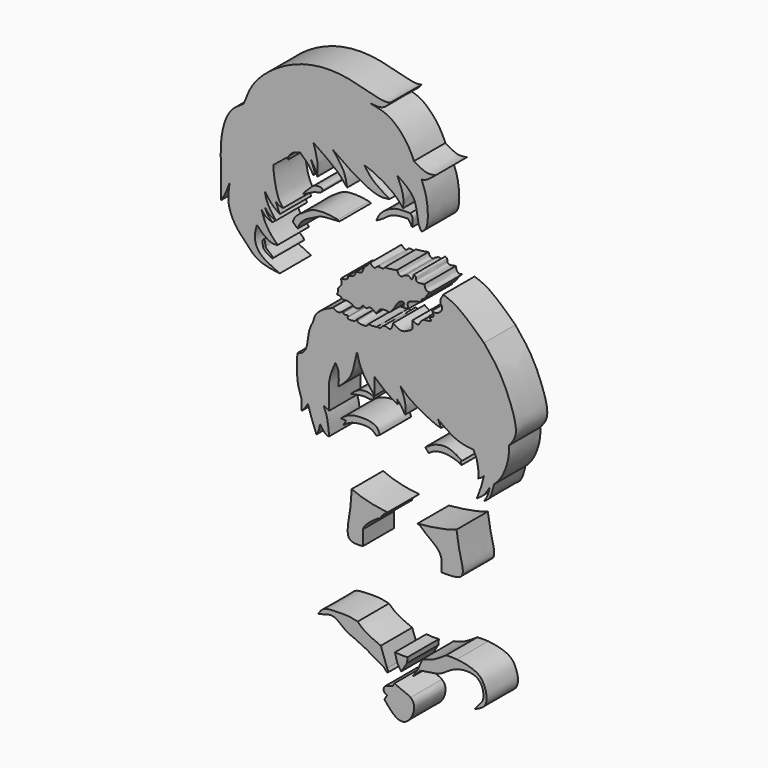
from build123d import *

# Parameters (mm, degrees)
F1_DEPTH = 9.144


with BuildPart() as f1:
    # F0 (on Front) → F1 (new body)
    with BuildSketch(Plane.XZ):
        with BuildLine():
            add(Edge.make_bspline(
                [(-23.2834928953, 7.3838214183), (-22.7370457146, 7.4878234549), (-20.8259872618, 8.3608240397), (-20.8955535587, 12.6126467214), (-19.9950304038, 14.2654869951), (-19.6032002568, 14.9846607819)],
                knots=[0.6667127263, 0.6667127263, 0.6667127263, 0.6667127263, 0.7248206748, 0.8802656491, 1, 1, 1, 1], degree=3))
            add(Edge.make_bspline(
                [(-23.2834928953, 7.3838214183), (-23.3467457651, 5.9570789342), (-23.4617251802, 3.2701303497), (-23.0085938514, -0.0398202583), (-22.0072298496, -1.9416483631), (-22.5352746964, -4.6428617238), (-21.5418332357, -3.3454172993), (-21.0707026007, -2.6549217527), (-20.8033584058, -2.2631050088)],
                knots=[0, 0, 0, 0, 0.2313073822, 0.4337531024, 0.6064591299, 0.7584828148, 0.8628605483, 1, 1, 1, 1], degree=3))
            add(Edge.make_bspline(
                [(-20.8033584058, -2.2631050088), (-20.5304210229, -3.1431055271), (-19.9679386076, -4.9566526919), (-19.2095162396, -6.8876436832), (-18.8191086054, -7.8816460446)],
                knots=[0, 0, 0, 0, 0.4852371835, 1, 1, 1, 1], degree=3))
            add(Edge.make_bspline(
                [(-18.8191086054, -7.8816460446), (-18.6842120522, -7.6407949919), (-18.549315499, -7.3999439393), (-18.4330398864, -7.1589284934)],
                knots=[0, 0, 0, 0, 0.2964626581, 0.2964626581, 0.2964626581, 0.2964626581], degree=3))
            add(Edge.make_bspline(
                [(-18.4330398864, -7.1589284934), (-18.3447757655, -6.9759751124), (-18.1023853604, -6.4037237485), (-18.0444646272, -5.8298438117), (-18.0050712079, -5.4395329207)],
                knots=[0.2964626581, 0.2964626581, 0.2964626581, 0.2964626581, 0.5215056858, 1, 1, 1, 1], degree=3))
            add(Edge.make_bspline(
                [(-18.0050712079, -5.4395329207), (-17.5358533235, -6.1386457618), (-16.7835088517, -7.2596040599), (-16.1184871301, -7.3049357396), (-15.8682223409, -7.3219952174)],
                knots=[0, 0, 0, 0, 0.6236742635, 1, 1, 1, 1], degree=3))
            add(Edge.make_bspline(
                [(-17.1401575208, -1.4202223392), (-16.8586679279, -2.0570863275), (-16.2066038698, -3.5323668604), (-15.9908419678, -5.9487440933), (-15.8682223409, -7.3219952174)],
                knots=[0, 0, 0, 0, 0.4316900915, 1, 1, 1, 1], degree=3))
            add(Edge.make_bspline(
                [(-17.1401575208, -1.4202223392), (-16.7161791275, -1.6325103353), (-16.2922007342, -1.8447983314), (-15.8682223409, -2.0570863275)],
                knots=[0, 0, 0, 0, 1.42246787, 1.42246787, 1.42246787, 1.42246787], degree=3))
            add(Edge.make_bspline(
                [(-14.39278014, 8.2973521203), (-14.6711141427, 7.6682392119), (-15.2639142795, 6.3283446443), (-16.074859645, 3.80515167), (-15.8293485486, 0.0230459236), (-15.8566308085, -1.4368247328), (-15.8682223409, -2.0570863275)],
                knots=[0, 0, 0, 0, 0.2241880166, 0.4774791641, 0.7779943001, 1, 1, 1, 1], degree=3))
            add(Edge.make_bspline(
                [(-14.39278014, 8.2973521203), (-14.1295459057, 7.8796531901), (-13.487271247, 6.8604945747), (-13.6087852881, 4.8205282663), (-13.6804971844, 3.6166356876)],
                knots=[0, 0, 0, 0, 0.4098468324, 1, 1, 1, 1], degree=3))
            add(Edge.make_bspline(
                [(-9.3559222296, 12.1640302241), (-9.545618552, 11.2439649612), (-9.9359418079, 9.3508187766), (-10.8175540538, 6.1497408327), (-12.7002842733, 4.4839188488), (-13.6804971844, 3.6166356876)],
                knots=[0, 0, 0, 0, 0.3118868084, 0.6417450425, 1, 1, 1, 1], degree=3))
            add(Edge.make_bspline(
                [(-9.3559222296, 12.1640302241), (-9.1415522268, 11.183021882), (-8.6885213887, 9.1098445463), (-6.4131342354, 5.8472901656), (-5.5715020805, 4.8617495549), (-5.232878495, 4.4652256183)],
                knots=[0, 0, 0, 0, 0.3493094953, 0.7382001739, 1, 1, 1, 1], degree=3))
            add(Edge.make_bspline(
                [(-5.232878495, 8.2973521203), (-5.232878495, 7.0199766196), (-5.232878495, 5.742601119), (-5.232878495, 4.4652256183)],
                knots=[0, 0, 0, 0, 3.8321265019, 3.8321265019, 3.8321265019, 3.8321265019], degree=3))
            add(Edge.make_bspline(
                [(-5.232878495, 8.2973521203), (-4.3802456485, 7.5448368917), (-2.7065009352, 6.0676261666), (-0.8907686531, 4.9926106857), (0, 4.4652256183)],
                knots=[0, 0, 0, 0, 0.5094163045, 1, 1, 1, 1], degree=3))
            add(Edge.make_bspline(
                [(0, 5.4318951443), (0.1058486689, 5.145685687), (0.0529243345, 4.8054556527), (0, 4.4652256183)],
                knots=[0.5048603434, 0.5048603434, 0.5048603434, 0.5048603434, 1, 1, 1, 1], degree=3))
            add(Edge.make_bspline(
                [(0, 5.4318951443), (0.2954681031, 5.1367856095), (0.9431074393, 4.4899322225), (1.5234797864, 3.4522790482), (1.8390727928, 2.8880273458)],
                knots=[0, 0, 0, 0, 0.4562232196, 1, 1, 1, 1], degree=3))
            add(Edge.make_bspline(
                [(0.7706487086, 8.3827814087), (1.046336286, 7.8160728257), (1.6141491875, 6.6488659174), (2.0410112224, 4.4780649121), (1.9027120641, 3.3891148912), (1.8390727928, 2.8880273458)],
                knots=[0, 0, 0, 0, 0.3375143575, 0.6951528554, 1, 1, 1, 1], degree=3))
            add(Edge.make_bspline(
                [(0.7706487086, 8.3827814087), (1.4259010838, 7.7394897403), (2.9808799505, 6.2128948168), (8.2537663963, 3.3848211667), (9.7029290704, 3.0212304271), (10.2338362485, 2.8880273458)],
                knots=[0, 0, 0, 0, 0.3157579297, 0.7493248804, 1, 1, 1, 1], degree=3))
            add(Edge.make_bspline(
                [(9.4706760719, 4.4652256183), (9.7976174178, 4.0288565413), (10.0157268332, 3.4584419435), (10.2338362485, 2.8880273458)],
                knots=[0.4755673873, 0.4755673873, 0.4755673873, 0.4755673873, 1, 1, 1, 1], degree=3))
            add(Edge.make_bspline(
                [(9.4706760719, 4.4652256183), (10.0343443338, 4.051640707), (11.305647942, 3.1188367413), (14.3873166326, 1.2226289698), (16.6467019141, 1.0061221732), (17.764126882, 0.8990443312)],
                knots=[0, 0, 0, 0, 0.2870388331, 0.6473905466, 1, 1, 1, 1], degree=3))
            add(Edge.make_bspline(
                [(17.764126882, 0.8990443312), (18.0813559885, 0.3023998655), (18.7704372558, -0.9936240998), (19.0452295332, -3.9517865462), (18.9189965282, -4.5276502492), (18.8843956508, -4.6411745258)],
                knots=[0, 0, 0, 0, 0.3707934573, 0.8054331089, 0.9380549572, 0.9380549572, 0.9380549572, 0.9380549572], degree=3))
            Line((18.8843956508, -4.6411745258), (18.8879403592, -4.6389544397))
            add(Edge.make_bspline(
                [(20.2455148101, -3.5931265447), (20.0121775324, -4.05283358), (19.4500589458, -4.3458940099), (18.8879403592, -4.6389544397)],
                knots=[0.4998641853, 0.4998641853, 0.4998641853, 0.4998641853, 1, 1, 1, 1], degree=3))
            add(Edge.make_bspline(
                [(20.2455148101, -3.5931265447), (20.0773123663, -4.3287265851), (19.712977018, -5.9220749981), (18.9532659882, -7.8335174867), (18.5442902148, -8.8625056669)],
                knots=[0, 0, 0, 0, 0.4616692962, 1, 1, 1, 1], degree=3))
            add(Edge.make_bspline(
                [(18.5442902148, -8.8625056669), (19.1478463262, -8.4617461117), (20.3724621261, -7.6486046753), (21.1465151236, -6.3250488608), (21.5390734375, -5.6538120843)],
                knots=[0, 0, 0, 0, 0.4928534414, 1, 1, 1, 1], degree=3))
            add(Edge.make_bspline(
                [(20.2455148101, -8.8625056669), (20.5707524824, -8.3797265979), (21.224439266, -7.409401437), (21.4338524446, -6.2409220409), (21.5390734375, -5.6538120843)],
                knots=[0, 0, 0, 0, 0.4975435951, 1, 1, 1, 1], degree=3))
            add(Edge.make_bspline(
                [(20.2455148101, -8.8625056669), (20.7148711561, -8.5543373227), (21.8253312757, -7.8252353104), (22.2948098647, -5.8051903378), (22.5658547133, -4.6389544397)],
                knots=[0, 0, 0, 0, 0.4226683495, 1, 1, 1, 1], degree=3))
            add(Edge.make_bspline(
                [(26.0366909206, 4.4652256183), (26.0643783429, 3.6051707896), (26.1273070443, 1.6504155581), (24.5377784991, -2.7239840742), (23.1644112145, -4.0576855437), (22.5658547133, -4.6389544397)],
                knots=[0, 0, 0, 0, 0.3071149756, 0.6980189927, 1, 1, 1, 1], degree=3))
            add(Edge.make_bspline(
                [(20.2455148101, 23.6175674945), (21.5002678948, 22.0694541327), (24.0620308419, 18.9087530382), (26.5946186612, 13.1492701279), (28.3467761271, 7.2400857711), (26.730517044, 5.2986452936), (26.0366909206, 4.4652256183)],
                knots=[0, 0, 0, 0, 0.2664763432, 0.5440506428, 0.8042705045, 1, 1, 1, 1], degree=3))
            add(Edge.make_bspline(
                [(10.7207633555, 30.4354578257), (11.7681867617, 30.0671966426), (14.3854184519, 29.1470101804), (18.0484429252, 25.6906704474), (20.2455148101, 23.6175674945)],
                knots=[0, 0, 0, 0, 0.400202783, 1, 1, 1, 1], degree=3))
            add(Edge.make_bspline(
                [(10.7207633555, 30.4354578257), (10.4758139401, 29.9304995969), (10.2923961274, 29.5940505696), (10.108971037, 29.2575880885)],
                knots=[0.8865263104, 0.8865263104, 0.8865263104, 0.8865263104, 1, 1, 1, 1], degree=3))
            add(Edge.make_bspline(
                [(8.1545943133, 26.3093189762), (8.4949935687, 26.1617466135), (9.2772580844, 25.8234431759), (11.0310106132, 27.5712354203), (9.7998001127, 28.4828242172), (10.1834723044, 29.0667388948), (10.108971037, 29.2575880885)],
                knots=[0, 0, 0, 0, 0.1144751405, 0.2628381702, 0.3762437058, 0.4669661306, 0.4669661306, 0.4669661306, 0.4669661306], degree=3))
            add(Edge.make_bspline(
                [(7.3290632646, 24.8650461435), (7.851522289, 24.9129696762), (8.7814318109, 24.9982673132), (8.3343218857, 25.8931341273), (8.1545943133, 26.3093189762)],
                knots=[0, 0, 0, 0, 0.1694828298, 0.3016574774, 0.3016574774, 0.3016574774, 0.3016574774], degree=3))
            add(Edge.make_bspline(
                [(3.601440927, 22.8684358299), (4.0993347589, 22.5384649139), (5.1332301838, 21.8532677938), (5.4996820436, 24.113130623), (8.517725504, 23.7713194036), (7.6417418318, 24.5536893029), (7.3290632646, 24.8650461435)],
                knots=[0, 0, 0, 0, 0.1079767012, 0.2242143558, 0.3540963209, 0.4285603531, 0.4285603531, 0.4285603531, 0.4285603531], degree=3))
            add(Edge.make_bspline(
                [(-0.9413046931, 20.7998961709), (-0.30413657, 20.3606664774), (0.9070827347, 19.5257923175), (2.5713426093, 20.3508270142), (3.9877840083, 21.0974691683), (3.3804068631, 22.588365083), (3.601440927, 22.8684358299)],
                knots=[0, 0, 0, 0, 0.1037723554, 0.1972455751, 0.2811032793, 0.3698970932, 0.3698970932, 0.3698970932, 0.3698970932], degree=3))
            add(Edge.make_bspline(
                [(-0.9413046931, 20.7998961709), (-0.969808945, 20.6540773126), (-1.1422470058, 19.927070055), (-1.6002731465, 18.9151561348), (-3.077156531, 20.0164781135), (-3.8830179857, 18.5953002161), (-4.4307690575, 18.7911349854), (-4.6659419313, 18.8752152026)],
                knots=[0.5181964914, 0.5181964914, 0.5181964914, 0.5181964914, 0.5480741139, 0.6690997634, 0.790044987, 0.9098553203, 1, 1, 1, 1], degree=3))
            add(Edge.make_bspline(
                [(-4.6659419313, 18.8752152026), (-4.6143586926, 18.6518044136), (-5.7102445653, 18.6546330711), (-6.7968204902, 18.6522367499)],
                knots=[0.7854608979, 0.7854608979, 0.7854608979, 0.7854608979, 1, 1, 1, 1], degree=3))
            add(Edge.make_bspline(
                [(-6.7968204902, 18.6522367499), (-6.8684314217, 18.4386236562), (-7.379689536, 17.8996071688), (-9.4692626942, 18.2367026987), (-9.2608198746, 18.6284649762), (-9.3200067243, 18.8752152026)],
                knots=[0.0388377977, 0.0388377977, 0.0388377977, 0.0388377977, 0.1036617107, 0.2437293631, 0.3165461539, 0.3165461539, 0.3165461539, 0.3165461539], degree=3))
            add(Edge.make_bspline(
                [(-9.3200067243, 18.8752152026), (-9.4543560362, 18.6677579741), (-9.772658848, 18.1762465683), (-11.904019028, 18.0701335076), (-11.2010559572, 19.1520906538), (-12.6812429457, 18.5928200618), (-12.535756528, 19.2213664521), (-12.4527206644, 19.544840801)],
                knots=[0, 0, 0, 0, 0.0980960614, 0.2324109574, 0.3081307546, 0.4114966056, 0.4849332227, 0.4849332227, 0.4849332227, 0.4849332227], degree=3))
            add(Edge.make_bspline(
                [(-12.4527206644, 19.544840801), (-12.8848613293, 19.2195165576), (-13.7336901453, 18.5808958089), (-14.5882032991, 19.1226699762), (-15.0079392633, 19.3892328639)],
                knots=[0, 0, 0, 0, 0.5090440529, 1, 1, 1, 1], degree=3))
            add(Edge.make_bspline(
                [(-19.6032002568, 14.9846607819), (-19.4514744108, 15.5934589779), (-19.1102940224, 16.9624413255), (-16.8990295674, 18.5982135071), (-15.4063722859, 19.1265880384), (-15.0079392633, 19.3892328639)],
                knots=[0, 0, 0, 0, 0.2020876828, 0.4544272177, 0.6046429592, 0.6046429592, 0.6046429592, 0.6046429592], degree=3))
        make_face()
    extrude(amount=F1_DEPTH)


with BuildPart() as f1b:
    # F0 (on Front) → F1, piece 2 (new body)
    with BuildSketch(Plane.XZ):
        with BuildLine():
            add(Edge.make_bspline(
                [(7.8839112623, 29.9550307841), (7.4330699671, 29.8591992719), (6.732179082, 29.7092988347), (6.4015948009, 30.7824765781), (6.3457405778, 31.1630724069)],
                knots=[0, 0, 0, 0, 0.1087324898, 0.1690772342, 0.1690772342, 0.1690772342, 0.1690772342], degree=3))
            add(Edge.make_bspline(
                [(6.3457405778, 31.1630724069), (5.5386224242, 31.0064856216), (4.1458545144, 30.7364754393), (4.5272829372, 32.0266575321), (4.0158145754, 32.2590573152), (3.8610626274, 32.3113169979)],
                knots=[0, 0, 0, 0, 0.1395616954, 0.2411039573, 0.280285402, 0.280285402, 0.280285402, 0.280285402], degree=3))
            add(Edge.make_bspline(
                [(3.8610626274, 32.3113169979), (3.7280034683, 31.7626494032), (3.4885190441, 30.7751055941), (2.7495475723, 31.9402309805), (1.9550213112, 31.548002301), (1.5080485027, 31.327355653)],
                knots=[0, 0, 0, 0, 0.3537167905, 0.6363807163, 1, 1, 1, 1], degree=3))
            add(Edge.make_bspline(
                [(0, 31.9966028064), (0.138717784, 31.570374643), (0.4036160619, 30.7564407461), (1.3739962293, 31.0728199955), (1.5080485027, 31.327355653)],
                knots=[0, 0, 0, 0, 0.142556645, 0.2722290444, 0.2722290444, 0.2722290444, 0.2722290444], degree=3))
            add(Edge.make_bspline(
                [(0, 31.9966028064), (-0.3448338661, 31.8911298534), (-1.6304980855, 31.6559905885), (-2.4118724119, 31.6061542815), (-2.9313690347, 31.5716880665)],
                knots=[0.7602819771, 0.7602819771, 0.7602819771, 0.7602819771, 0.8400336398, 1, 1, 1, 1], degree=3))
            add(Edge.make_bspline(
                [(-6.3149542052, 31.4247538611), (-5.9299594666, 31.046662111), (-5.2172115016, 30.3465665602), (-4.5953991435, 31.5901947835), (-3.2483999389, 30.9712736453), (-2.9759778503, 31.4178358209), (-2.9313690347, 31.5716880665)],
                knots=[0, 0, 0, 0, 0.1214257355, 0.2250401772, 0.3490738201, 0.392590396, 0.392590396, 0.392590396, 0.392590396], degree=3))
            add(Edge.make_bspline(
                [(-6.3149542052, 31.4247538611), (-6.4831560258, 31.1724553664), (-6.9450968102, 30.671667244), (-7.3665193936, 30.3525451079), (-7.6046418399, 30.1722269505)],
                knots=[0.7824320274, 0.7824320274, 0.7824320274, 0.7824320274, 0.8770644481, 1, 1, 1, 1], degree=3))
            Line((-7.6046418399, 30.1722269505), (-8.2027550719, 28.845915923))
            Line((-8.2027550719, 28.845915923), (-9.6632829871, 28.4139886065))
            add(Edge.make_bspline(
                [(-11.4182481745, 27.1112304181), (-10.7962385439, 27.245318041), (-9.9197250437, 27.4342694751), (-9.6765987799, 28.1893002247), (-9.6632829871, 28.4139886065)],
                knots=[0, 0, 0, 0, 0.1715092195, 0.241684596, 0.241684596, 0.241684596, 0.241684596], degree=3))
            add(Edge.make_bspline(
                [(-13.1361398632, 25.9786825627), (-12.4455884358, 26.0576453064), (-11.5015505986, 26.1655935558), (-11.4135700693, 26.8922264037), (-11.4182481745, 27.1112304181)],
                knots=[0, 0, 0, 0, 0.1797687074, 0.24575789, 0.24575789, 0.24575789, 0.24575789], degree=3))
            add(Edge.make_bspline(
                [(-13.7934880331, 23.800548166), (-13.3464910301, 24.2256541761), (-12.7350249926, 24.8071746018), (-13.0212995331, 25.7414309798), (-13.1361398632, 25.9786825627)],
                knots=[0, 0, 0, 0, 0.1926713389, 0.263563244, 0.263563244, 0.263563244, 0.263563244], degree=3))
            add(Edge.make_bspline(
                [(-14.1093051353, 22.3692841823), (-14.0083345722, 22.5164989258), (-13.7169390796, 23.032336388), (-13.7615559241, 23.4800915025), (-13.7934880331, 23.800548166)],
                knots=[0.6095674538, 0.6095674538, 0.6095674538, 0.6095674538, 0.7205688846, 1, 1, 1, 1], degree=3))
            add(Edge.make_bspline(
                [(-12.4527206644, 21.7203851789), (-12.7962894206, 21.9987133631), (-13.3953188046, 22.4839925328), (-13.895849865, 22.4035776988), (-14.1093051353, 22.3692841823)],
                knots=[0, 0, 0, 0, 0.5735424088, 1, 1, 1, 1], degree=3))
            add(Edge.make_bspline(
                [(-12.4527206644, 21.7203851789), (-12.2667521605, 21.9613562883), (-10.8563731327, 21.8418532385), (-10.0231775629, 21.1129956532), (-9.5299205505, 21.0449701291), (-9.3200067243, 21.016020722)],
                knots=[0.6677766138, 0.6677766138, 0.6677766138, 0.6677766138, 0.7967229065, 0.9134920105, 1, 1, 1, 1], degree=3))
            add(Edge.make_bspline(
                [(-9.3200067243, 21.016020722), (-9.1348419057, 21.0867377377), (-8.4954471011, 21.3177182161), (-8.1678520809, 22.3649389073), (-7.4084929957, 21.9589661334), (-7.295078598, 21.7203851789)],
                knots=[0.5200184405, 0.5200184405, 0.5200184405, 0.5200184405, 0.5680958913, 0.6753526598, 0.7652030183, 0.7652030183, 0.7652030183, 0.7652030183], degree=3))
            add(Edge.make_bspline(
                [(-7.295078598, 21.7203851789), (-6.9665676676, 21.9621782182), (-6.2980487688, 22.454211566), (-5.5062272137, 21.9410437861), (-5.0014957635, 21.5401907884), (-4.8954844488, 21.442797004)],
                knots=[0, 0, 0, 0, 0.1543820822, 0.3137298854, 0.3618438877, 0.3618438877, 0.3618438877, 0.3618438877], degree=3))
            add(Edge.make_bspline(
                [(-4.8954844488, 21.442797004), (-4.5977796871, 21.9406030924), (-4.0076809845, 22.9272500112), (-2.6869521104, 22.8514155823), (-1.9308443956, 22.7846848037), (-1.7455301713, 22.7487841641)],
                knots=[0, 0, 0, 0, 0.1362307653, 0.269953759, 0.3183876717, 0.3183876717, 0.3183876717, 0.3183876717], degree=3))
            add(Edge.make_bspline(
                [(2.6063384858, 24.8650461435), (2.1942335066, 24.8145199149), (1.1658738782, 24.5950400189), (1.8693063082, 26.0532878528), (0.1927644211, 25.8086647115), (-0.5734724504, 23.9808846719), (-1.3646671233, 23.1491577188), (-1.7455301713, 22.7487841641)],
                knots=[0.5943830337, 0.5943830337, 0.5943830337, 0.5943830337, 0.6687023485, 0.7344570088, 0.8061302556, 0.9066751273, 1, 1, 1, 1], degree=3))
            add(Edge.make_bspline(
                [(5.4186019115, 27.1112304181), (5.0234748447, 27.1673342405), (4.3892847604, 26.8573306932), (2.1865500338, 26.5359007239), (2.4725942371, 25.3974269289), (2.6063384858, 24.8650461435)],
                knots=[0.6718827421, 0.6718827421, 0.6718827421, 0.6718827421, 0.7692770988, 0.8921054349, 1, 1, 1, 1], degree=3))
            add(Edge.make_bspline(
                [(6.3158340651, 28.1095355749), (6.176623522, 28.0984645429), (5.7319857186, 28.0017814598), (5.5494119254, 27.4829567486), (5.4186019115, 27.1112304181)],
                knots=[0.779708411, 0.779708411, 0.779708411, 0.779708411, 0.8421659911, 1, 1, 1, 1], degree=3))
            add(Edge.make_bspline(
                [(7.8839112623, 29.9550307841), (7.735002289, 29.8955665174), (7.2348545952, 29.6065257298), (6.7899295107, 28.7505189498), (6.4629743272, 28.3084711212), (6.3158340651, 28.1095355749)],
                knots=[0.7380710375, 0.7380710375, 0.7380710375, 0.7380710375, 0.7860824457, 0.9037242354, 1, 1, 1, 1], degree=3))
        make_face()
    extrude(amount=F1_DEPTH)


with BuildPart() as f1c:
    # F0 (on Front) → F1, piece 3 (new body)
    with BuildSketch(Plane.XZ):
        with BuildLine():
            add(Edge.make_bspline(
                [(-35.7814617455, 54.4607974589), (-35.1294902931, 56.2580385342), (-33.6217832132, 60.4142221881), (-24.8587240547, 67.0598147468), (-13.5574055336, 68.9025618329), (-3.7408851946, 65.3392585884), (-2.0826629799, 65.7100235675), (-1.5783999115, 65.8227726817)],
                knots=[0, 0, 0, 0, 0.1801577688, 0.4166212225, 0.6692381623, 0.8994157854, 1, 1, 1, 1], degree=3))
            add(Edge.make_bspline(
                [(-35.7814617455, 54.4607974589), (-36.9660435508, 53.7192314586), (-39.6371439458, 52.0470824964), (-41.4435000187, 45.2091002113), (-40.90865743, 38.276174862), (-41.0321955069, 34.6230988819), (-41.0893410444, 32.9332798719)],
                knots=[0, 0, 0, 0, 0.2147152851, 0.4841591187, 0.7613852731, 1, 1, 1, 1], degree=3))
            add(Edge.make_bspline(
                [(-39.0357784927, 37.3223088682), (-39.3068751954, 36.4871641653), (-39.8328133827, 34.8669508361), (-40.6792184627, 33.564417691), (-41.0893410444, 32.9332798719)],
                knots=[0, 0, 0, 0, 0.5154535442, 1, 1, 1, 1], degree=3))
            add(Edge.make_bspline(
                [(-39.0357784927, 37.3223088682), (-39.2663167276, 35.8503562843), (-39.7237506432, 32.9297082879), (-37.8932117017, 28.8232904918), (-35.3355419375, 26.2445931328), (-32.6090873171, 23.054912113), (-29.1942267979, 22.6222398747), (-27.3706596345, 22.3911888897)],
                knots=[0, 0, 0, 0, 0.2030045896, 0.4028016624, 0.587587588, 0.7797679501, 1, 1, 1, 1], degree=3))
            add(Edge.make_bspline(
                [(-32.7052474022, 30.6194592267), (-32.9437435672, 29.796959276), (-33.4410033525, 28.0820631527), (-32.5416588893, 24.8873001119), (-29.1255932511, 23.2013356898), (-27.8898295194, 22.6308582522), (-27.3706596345, 22.3911888897)],
                knots=[0, 0, 0, 0, 0.2419037348, 0.5043645008, 0.7917732828, 1, 1, 1, 1], degree=3))
            add(Edge.make_bspline(
                [(-32.7052474022, 30.6194592267), (-32.2776458268, 30.1586591256), (-31.3743159383, 29.1851956776), (-29.1736478235, 27.7898662152), (-28.2364976951, 27.9935373316), (-27.8464587868, 28.0783046037)],
                knots=[0, 0, 0, 0, 0.3441518182, 0.7270380688, 1, 1, 1, 1], degree=3))
            add(Edge.make_bspline(
                [(-31.5865762532, 34.014493227), (-31.3900278981, 33.3686911533), (-30.9715934647, 31.9938344432), (-29.5440623109, 29.6930906124), (-28.3999101563, 28.6047558718), (-27.8464587868, 28.0783046037)],
                knots=[0, 0, 0, 0, 0.313810362, 0.6680750953, 1, 1, 1, 1], degree=3))
            add(Edge.make_bspline(
                [(-31.5865762532, 34.014493227), (-31.2663458774, 33.6142988988), (-30.6206414801, 32.8073572185), (-29.6124438983, 32.4857445846), (-29.1042514145, 32.3236323893)],
                knots=[0, 0, 0, 0, 0.4959395926, 1, 1, 1, 1], degree=3))
            add(Edge.make_bspline(
                [(-30.8788307011, 34.9012799561), (-30.7000381504, 34.5018341672), (-30.3149995983, 33.6416080136), (-29.5265725628, 32.7833555476), (-29.1042514145, 32.3236323893)],
                knots=[0, 0, 0, 0, 0.4643497379, 1, 1, 1, 1], degree=3))
            add(Edge.make_bspline(
                [(-30.8788307011, 34.9012799561), (-30.5367277234, 34.4660048105), (-29.8501341697, 33.5924166559), (-28.8169803693, 33.1535009032), (-28.2986070961, 32.9332798719)],
                knots=[0, 0, 0, 0, 0.4982612725, 1, 1, 1, 1], degree=3))
            add(Edge.make_bspline(
                [(-30.8788307011, 38.1955392659), (-30.7473282643, 37.5029628033), (-30.446143608, 35.9167305715), (-29.0724962365, 34.0084001712), (-28.2986070961, 32.9332798719)],
                knots=[0, 0, 0, 0, 0.4366173179, 1, 1, 1, 1], degree=3))
            add(Edge.make_bspline(
                [(-30.8788307011, 38.1955392659), (-30.3680718909, 37.4348321133), (-29.3740457098, 35.9543626417), (-28.0260277705, 35.0154780178), (-27.3706596345, 34.5590189099)],
                knots=[0, 0, 0, 0, 0.5138283276, 1, 1, 1, 1], degree=3))
            add(Edge.make_bspline(
                [(-28.2986070961, 36.869276315), (-28.1510459743, 36.4654437054), (-27.8600477459, 35.6690647367), (-27.5322404477, 34.9255216982), (-27.3706596345, 34.5590189099)],
                knots=[0, 0, 0, 0, 0.5070859798, 1, 1, 1, 1], degree=3))
            add(Edge.make_bspline(
                [(-28.2986070961, 36.869276315), (-28.0250817867, 36.6377954889), (-27.498889244, 36.1924857486), (-26.8919928403, 36.1005517031), (-26.6005732119, 36.056406796)],
                knots=[0, 0, 0, 0, 0.5198198135, 1, 1, 1, 1], degree=3))
            add(Edge.make_bspline(
                [(-28.785231577, 44.2480828226), (-28.8010731442, 44.1099001136), (-28.8583147087, 43.5927752627), (-28.8799281438, 43.1048464989), (-28.1028707183, 37.9362905737), (-27.0409268142, 36.6074385256), (-26.6005732119, 36.056406796)],
                knots=[0.2635556696, 0.2635556696, 0.2635556696, 0.2635556696, 0.3054515071, 0.4415873913, 0.768444451, 1, 1, 1, 1], degree=3))
            add(Edge.make_bspline(
                [(-28.2986070961, 48.1609292328), (-28.4920917749, 46.6391415253), (-28.6855764537, 45.1173538178), (-28.785231577, 44.2480828226)],
                knots=[0, 0, 0, 0, 0.2635556696, 0.2635556696, 0.2635556696, 0.2635556696], degree=3))
            add(Edge.make_bspline(
                [(-28.2986070961, 48.1609292328), (-27.8464587868, 47.9634950381), (-27.010493705, 47.5984641637), (-26.1578201301, 46.9830774229), (-25.7654880348, 46.6878892833)],
                knots=[0, 0, 0, 0, 0.4725075286, 0.8736067053, 0.8736067053, 0.8736067053, 0.8736067053], degree=3))
            add(Edge.make_bspline(
                [(-25.7654880348, 46.6878892833), (-25.6418573992, 46.5948703899), (-25.5181429603, 46.5005958087), (-25.3944285214, 46.4063212276)],
                knots=[0.8736067053, 0.8736067053, 0.8736067053, 0.8736067053, 1, 1, 1, 1], degree=3))
            add(Edge.make_bspline(
                [(-25.3893850686, 47.0418099407), (-25.3910662195, 46.8299803696), (-25.3927473705, 46.6181507986), (-25.3944285214, 46.4063212276)],
                knots=[3.1763469738, 3.1763469738, 3.1763469738, 3.1763469738, 3.8118556999, 3.8118556999, 3.8118556999, 3.8118556999], degree=3))
            add(Edge.make_bspline(
                [(-25.3893850686, 47.0418099407), (-25.0557285674, 47.4620146531), (-24.369423664, 48.3263423478), (-23.2037361287, 48.592016387), (-22.6047635078, 48.7285293639)],
                knots=[0, 0, 0, 0, 0.4861636565, 1, 1, 1, 1], degree=3))
            add(Edge.make_bspline(
                [(-22.6047635078, 48.7285293639), (-21.9535734983, 48.1561780987), (-20.6918068333, 47.0471719154), (-19.9232524247, 45.7283029964), (-19.5513442159, 45.0900942087)],
                knots=[0, 0, 0, 0, 0.5160938449, 1, 1, 1, 1], degree=3))
            add(Edge.make_bspline(
                [(-20.1423279941, 48.1867939234), (-19.7161752789, 47.2203695897), (-19.0755673004, 45.7676060226), (-19.4320163596, 45.2600184521), (-19.5513442159, 45.0900942087)],
                knots=[0, 0, 0, 0, 0.6652316699, 1, 1, 1, 1], degree=3))
            add(Edge.make_bspline(
                [(-20.1423279941, 48.1867939234), (-19.846601162, 47.7656778286), (-19.2259666987, 46.8818920739), (-18.8253477658, 45.7057926566), (-18.6156202108, 45.0900942087)],
                knots=[0, 0, 0, 0, 0.4764911547, 1, 1, 1, 1], degree=3))
            add(Edge.make_bspline(
                [(-18.6156202108, 45.0900942087), (-18.552181083, 46.0884137945), (-18.4185841194, 48.19078295), (-19.1290158803, 50.531334788), (-19.5020958781, 51.7604649067)],
                knots=[0, 0, 0, 0, 0.4748545626, 1, 1, 1, 1], degree=3))
            add(Edge.make_bspline(
                [(-11.676502414, 45.0900942087), (-12.3272984352, 45.938331185), (-13.8935534125, 47.9797625136), (-17.4332069695, 50.3658328261), (-19.5020958781, 51.7604649067)],
                knots=[0, 0, 0, 0, 0.4155109037, 1, 1, 1, 1], degree=3))
            add(Edge.make_bspline(
                [(-11.676502414, 45.0900942087), (-11.8286956037, 46.1054911744), (-12.1610500276, 48.3228812852), (-13.9695963827, 50.5520739076), (-14.9499652907, 51.7604649067)],
                knots=[0, 0, 0, 0, 0.4579243683, 1, 1, 1, 1], degree=3))
            add(Edge.make_bspline(
                [(-1.7864627298, 45.9628050413), (-2.676068489, 45.812503318), (-4.9571601974, 45.4271056163), (-11.4748719562, 49.2262934696), (-13.8936209007, 50.9901380339), (-14.9499652907, 51.7604649067)],
                knots=[0, 0, 0, 0, 0.2647648446, 0.678899485, 1, 1, 1, 1], degree=3))
            add(Edge.make_bspline(
                [(-7.7065564692, 51.0639846325), (-7.1714814729, 50.2890985738), (-5.9479153592, 48.5171519684), (-3.2849132595, 46.8825710093), (-1.7864627298, 45.9628050413)],
                knots=[0, 0, 0, 0, 0.4373077927, 1, 1, 1, 1], degree=3))
            add(Edge.make_bspline(
                [(-7.7065564692, 51.0639846325), (-6.9251789105, 50.816180507), (-5.06454446, 50.2261035489), (-0.4902654686, 47.4885830822), (0.796369865, 45.8116126043), (1.3499461347, 45.0900942087)],
                knots=[0, 0, 0, 0, 0.2920333249, 0.6953965581, 1, 1, 1, 1], degree=3))
            add(Edge.make_bspline(
                [(0, 51.4153204858), (0.5726647886, 50.1685356769), (1.6228893961, 47.8820251166), (1.435263626, 45.9628050413), (1.3499461347, 45.0900942087)],
                knots=[0, 0, 0, 0, 0.5452783952, 1, 1, 1, 1], degree=3))
            add(Edge.make_bspline(
                [(0, 51.4153204858), (1.5804201554, 50.373322382), (4.6206334438, 48.3688576382), (4.6552802232, 43.3255094511), (5.3974043392, 42.147842247), (5.6838947348, 41.6932143271)],
                knots=[0, 0, 0, 0, 0.3992883345, 0.7681006196, 1, 1, 1, 1], degree=3))
            add(Edge.make_bspline(
                [(5.6838947348, 52.4695254862), (6.1262655494, 51.3688962752), (7.0979527992, 48.9513150608), (7.3864531728, 42.9593992275), (6.1375517859, 42.030596995), (5.6838947348, 41.6932143271)],
                knots=[0, 0, 0, 0, 0.3473273268, 0.7629199845, 1, 1, 1, 1], degree=3))
            add(Edge.make_bspline(
                [(5.6838947348, 52.4695254862), (6.5728704463, 52.3524069582), (7.7682551471, 53.3480350571), (8.9636398479, 54.343663156)],
                knots=[0.447306858, 0.447306858, 0.447306858, 0.447306858, 1, 1, 1, 1], degree=3))
            add(Edge.make_bspline(
                [(3.9268885739, 55.6321367621), (4.9319189371, 55.0205001502), (6.7472913646, 53.9157094079), (8.2796353947, 54.2115890388), (8.9636398479, 54.343663156)],
                knots=[0, 0, 0, 0, 0.5536221372, 1, 1, 1, 1], degree=3))
            add(Edge.make_bspline(
                [(-6.3808835112, 64.1828998923), (-4.7334111161, 63.8836296296), (-1.3311885135, 63.26560164), (2.5738202546, 58.695666123), (3.5188384573, 56.5560173195), (3.9268885739, 55.6321367621)],
                knots=[0, 0, 0, 0, 0.3478848075, 0.7184226932, 1, 1, 1, 1], degree=3))
            add(Edge.make_bspline(
                [(-6.3808835112, 64.1828998923), (-5.2737490584, 64.0772676989), (-3.1996134426, 63.879373492), (-2.0939029895, 65.2048230749), (-1.5783999115, 65.8227726817)],
                knots=[0, 0, 0, 0, 0.53378113, 1, 1, 1, 1], degree=3))
        make_face()
        with BuildLine():
            add(Edge.make_bspline(
                [(-28.2986070961, 48.1609292328), (-28.4920917749, 46.6391415253), (-28.6855764537, 45.1173538178), (-28.785231577, 44.2480828226)],
                knots=[0, 0, 0, 0, 0.2635556696, 0.2635556696, 0.2635556696, 0.2635556696], degree=3))
            add(Edge.make_bspline(
                [(-28.785231577, 44.2480828226), (-28.3007455834, 44.6643673814), (-27.3248327433, 45.4995741158), (-26.2851582749, 46.2938266438), (-25.7654880348, 46.6878892833)],
                knots=[0, 0, 0, 0, 0.4975526792, 1, 1, 1, 1], degree=3))
            add(Edge.make_bspline(
                [(-28.2986070961, 48.1609292328), (-27.8464587868, 47.9634950381), (-27.010493705, 47.5984641637), (-26.1578201301, 46.9830774229), (-25.7654880348, 46.6878892833)],
                knots=[0, 0, 0, 0, 0.4725075286, 0.8736067053, 0.8736067053, 0.8736067053, 0.8736067053], degree=3))
        make_face()
    extrude(amount=F1_DEPTH)


with BuildPart() as f1d:
    # F0 (on Front) → F1, piece 4 (new body)
    with BuildSketch(Plane.XZ):
        with BuildLine():
            add(Edge.make_bspline(
                [(-21.8587424606, 40.5759736896), (-21.9293402695, 40.7038587526), (-20.3192223413, 42.1317348946), (-19.5849951804, 43.1035478946), (-17.8051349022, 43.346918), (-17.2605613044, 42.778529332), (-17.7401009921, 41.9617048776), (-19.318767036, 41.828603421), (-20.2938097799, 41.1841303084), (-21.7977664656, 40.4655181514), (-21.8587424606, 40.5759736896)],
                knots=[0, 0, 0, 0, 0.1530035736, 0.2889238079, 0.4260699511, 0.5093259933, 0.6024382668, 0.7349028971, 0.8678493668, 1, 1, 1, 1], degree=3))
        make_face()
    extrude(amount=F1_DEPTH)


with BuildPart() as f1e:
    # F0 (on Front) → F1, piece 5 (new body)
    with BuildSketch(Plane.XZ):
        with BuildLine():
            add(Edge.make_bspline(
                [(-10.7559990138, 3.1001628377), (-10.3044980963, 3.5359459066), (-9.392131369, 4.416550922), (-7.3696725363, 4.8774805902), (-6.3816343974, 4.5845093729), (-5.9226509184, 4.4484124519)],
                knots=[0, 0, 0, 0, 0.3440812606, 0.6952993481, 1, 1, 1, 1], degree=3))
            add(Edge.make_bspline(
                [(-10.7559990138, 3.1001628377), (-10.3593019709, 3.1560794666), (-9.4696864137, 3.2814756699), (-7.6619811728, 3.7517600431), (-5.6524071004, 3.1869879272), (-5.3134453705, 4.1999914397), (-5.7237460498, 4.3673032943), (-5.9226509184, 4.4484124519)],
                knots=[0, 0, 0, 0, 0.2068397339, 0.4638498028, 0.7146694591, 0.8616779436, 1, 1, 1, 1], degree=3))
        make_face()
    extrude(amount=F1_DEPTH)


with BuildPart() as f1f:
    # F0 (on Front) → F1, piece 6 (new body)
    with BuildSketch(Plane.XZ):
        with BuildLine():
            add(Edge.make_bspline(
                [(-13.1420567632, -2.7368646115), (-12.5702592869, -2.2616440846), (-11.2540416732, -1.1677364447), (-7.2536149387, -0.7599784637), (-4.4979536295, -1.5900657613), (-4.2090467195, -2.7151476621), (-4.0858881548, -3.1947605312)],
                knots=[0, 0, 0, 0, 0.24118308, 0.5551780677, 0.8103761842, 1, 1, 1, 1], degree=3))
            Line((-13.1420567632, -2.7368646115), (-11.9033038869, -2.7368646115))
            Line((-11.9033038869, -2.7368646115), (-12.5315282494, -3.9070434868))
            add(Edge.make_bspline(
                [(-12.5315282494, -3.9070434868), (-11.9033038869, -3.4410703996), (-10.4812583274, -2.3862960241), (-6.0893563876, -2.1846491739), (-5.2338552315, -3.2039239733), (-4.899926018, -3.6017792299)],
                knots=[0, 0, 0, 0, 0.3254578724, 0.7367048303, 1, 1, 1, 1], degree=3))
            Line((-4.899926018, -3.6017792299), (-4.0858881548, -3.1947605312))
        make_face()
    extrude(amount=F1_DEPTH)


with BuildPart() as f1g:
    # F0 (on Front) → F1, piece 7 (new body)
    with BuildSketch(Plane.XZ):
        with BuildLine():
            add(Edge.make_bspline(
                [(6.547477562, -2.2280910052), (7.1955297049, -1.8213002231), (8.3484812599, -1.0975774952), (9.6001927335, -0.7161177974), (11.9752591058, -0.3290183632), (14.0004816251, -1.542093543), (15.1457507163, -2.2280910052)],
                knots=[0, 0, 0, 0, 0.2428297132, 0.4320190875, 0.6788051795, 1, 1, 1, 1], degree=3))
            Line((6.547477562, -2.2280910052), (7.3106386699, -3.1947605312))
            add(Edge.make_bspline(
                [(7.3106386699, -3.1947605312), (7.746110525, -2.9034915254), (8.7449084648, -2.2354371392), (11.3914677573, -1.8026629182), (14.4470899588, -2.742335846), (14.8501397521, -3.0883514294), (14.9740884081, -3.1947605312)],
                knots=[0, 0, 0, 0, 0.2335863432, 0.5357534719, 0.8572317015, 1, 1, 1, 1], degree=3))
            Line((14.9740884081, -3.1947605312), (14.7451404482, -2.4982849136))
            Line((14.7451404482, -2.4982849136), (15.1457507163, -2.2280910052))
        make_face()
    extrude(amount=F1_DEPTH)


with BuildPart() as f1h:
    # F0 (on Front) → F1, piece 8 (new body)
    with BuildSketch(Plane.XZ):
        with BuildLine():
            add(Edge.make_bspline(
                [(-13.7934880331, 37.83063218), (-13.670796218, 37.7543158829), (-13.5481044029, 37.6779995859), (-13.4254125878, 37.6016832888)],
                knots=[0, 0, 0, 0, 0.4334710235, 0.4334710235, 0.4334710235, 0.4334710235], degree=3))
            add(Edge.make_bspline(
                [(-13.7934880331, 37.83063218), (-14.5484296548, 37.9800617601), (-16.1601618865, 38.2990804281), (-19.4627199733, 38.2116059816), (-21.1656799412, 37.1310553963), (-23.7174793486, 35.5508348823), (-24.1530308665, 34.4735068647), (-24.3386048824, 34.014493227)],
                knots=[0, 0, 0, 0, 0.2020191586, 0.4312926721, 0.618258502, 0.837352644, 1, 1, 1, 1], degree=3))
            add(Edge.make_bspline(
                [(-24.3386048824, 34.014493227), (-24.111428749, 33.7675824047), (-23.7015745638, 33.3221243699), (-23.3572200234, 33.053160869), (-23.2037361287, 32.9332798719)],
                knots=[0, 0, 0, 0, 0.5542852593, 1, 1, 1, 1], degree=3))
            add(Edge.make_bspline(
                [(-23.2037361287, 32.9332798719), (-23.1097837538, 33.216522966), (-22.8813293458, 33.9052563101), (-21.6908833871, 35.4990168945), (-18.7522553902, 36.6968267932), (-17.7226188352, 37.4131647118), (-14.6641577636, 37.4694820328), (-13.8817665678, 37.5437084522), (-13.7255053033, 37.562127131)],
                knots=[0, 0, 0, 0, 0.1214565072, 0.2953334011, 0.5119633815, 0.6588996812, 0.8822117564, 0.9514666544, 0.9514666544, 0.9514666544, 0.9514666544], degree=3))
            add(Edge.make_bspline(
                [(-13.7255053033, 37.562127131), (-13.6159985077, 37.5750348116), (-13.5207055477, 37.5883590502), (-13.4254125878, 37.6016832888)],
                knots=[0.9514666544, 0.9514666544, 0.9514666544, 0.9514666544, 1, 1, 1, 1], degree=3))
        make_face()
    extrude(amount=F1_DEPTH)


with BuildPart() as f1i:
    # F0 (on Front) → F1, piece 9 (new body)
    with BuildSketch(Plane.XZ):
        with BuildLine():
            add(Edge.make_bspline(
                [(-4.858314991, 40.564250201), (-4.6477667591, 41.1222612596), (-4.1427588171, 42.4606720064), (-0.8165824894, 44.7718928934), (1.7419801523, 44.6694876302), (3.0284915119, 44.6179956198)],
                knots=[0, 0, 0, 0, 0.2622624765, 0.6290465244, 1, 1, 1, 1], degree=3))
            add(Edge.make_bspline(
                [(-4.858314991, 40.564250201), (-4.7662430879, 40.6130830066), (-4.6741711848, 40.6619158122), (-4.5821939697, 40.7110644641)],
                knots=[0, 0, 0, 0, 0.0451862327, 0.0451862327, 0.0451862327, 0.0451862327], degree=3))
            add(Edge.make_bspline(
                [(-4.5821939697, 40.7110644641), (-4.0814662281, 40.9786317463), (-2.9477729687, 41.609156211), (-1.17494517, 43.2171248058), (1.2489938554, 43.3008143114), (2.5988076228, 43.3474183083)],
                knots=[0.0451862327, 0.0451862327, 0.0451862327, 0.0451862327, 0.2911819416, 0.6052819961, 1, 1, 1, 1], degree=3))
            add(Edge.make_bspline(
                [(2.5988076228, 43.3474183083), (2.8962705205, 42.8633888563), (3.1937334181, 42.3793594042), (3.4911963157, 41.8953299522)],
                knots=[0, 0, 0, 0, 1.7043820502, 1.7043820502, 1.7043820502, 1.7043820502], degree=3))
            add(Edge.make_bspline(
                [(3.0284915119, 44.6179956198), (3.2108110328, 44.4791564886), (3.7114422176, 44.0979181087), (3.5768028261, 42.7514452503), (3.4911963157, 41.8953299522)],
                knots=[0, 0, 0, 0, 0.3641793128, 1, 1, 1, 1], degree=3))
        make_face()
    extrude(amount=F1_DEPTH)


with BuildPart() as f1j:
    # F0 (on Front) → F1, piece 10 (new body)
    with BuildSketch(Plane.XZ):
        with BuildLine():
            add(Edge.make_bspline(
                [(-30.9691801667, 28.1913466752), (-31.0596335166, 28.2287567363), (-31.4224907588, 28.0658899797), (-31.3348868344, 27.3291284115), (-31.3490115395, 26.544186973), (-30.765920429, 25.7211426961), (-29.4595970676, 25.0275620323), (-28.9339047763, 24.8272576548), (-29.1851003223, 25.4931053323), (-29.6998457123, 25.8287360947), (-30.4821122699, 26.5119932312), (-30.7340421742, 26.8791427972), (-30.8095390891, 27.7267060225), (-30.866839494, 28.1490202071), (-30.9691801667, 28.1913466752)],
                knots=[0, 0, 0, 0, 0.0600638624, 0.1437589685, 0.2326091171, 0.3325230592, 0.4579661665, 0.5157063583, 0.5851645045, 0.6694012178, 0.7703468146, 0.8381523549, 0.9320425823, 1, 1, 1, 1], degree=3))
        make_face()
    extrude(amount=F1_DEPTH)


with BuildPart() as f1k:
    # F0 (on Front) → F1, piece 11 (new body)
    with BuildSketch(Plane.XZ):
        with BuildLine():
            add(Edge.make_bspline(
                [(13.8276492638, -16.7859301138), (14.0587267606, -18.3834979961), (14.4929554092, -21.4194449981), (15.8780485826, -25.7934094551), (14.2906357632, -26.4296964677), (13.7214488103, -26.5412101052)],
                knots=[0, 0, 0, 0, 0.3025835695, 0.5775585759, 0.7086436931, 0.7086436931, 0.7086436931, 0.7086436931], degree=3))
            add(Edge.make_bspline(
                [(4.7377212904, -18.4972265552), (6.5623558523, -18.3606282695), (9.7582413002, -17.9173201875), (12.6903836285, -17.2235688297), (13.8276492638, -16.7859301138)],
                knots=[0.4313417177, 0.4313417177, 0.4313417177, 0.4313417177, 0.5415813461, 0.6296343765, 0.6296343765, 0.6296343765, 0.6296343765], degree=3))
            add(Edge.make_bspline(
                [(4.7377212904, -18.4972265552), (4.9767544745, -18.6009182126), (5.5130832338, -18.8335755242), (6.0944426163, -19.39450259), (6.4166993834, -19.7054333985)],
                knots=[0, 0, 0, 0, 0.4456840695, 1, 1, 1, 1], degree=3))
            add(Edge.make_bspline(
                [(6.4166993834, -19.7054333985), (6.8364474582, -20.0393778353), (7.7694911507, -20.7816915448), (9.935813667, -22.397975898), (10.2033102199, -23.4969447699), (10.3195011616, -23.9742975682)],
                knots=[0, 0, 0, 0, 0.3162623511, 0.7030088036, 1, 1, 1, 1], degree=3))
            add(Edge.make_bspline(
                [(10.3195011616, -23.9742975682), (10.3256456566, -24.85086617), (10.3317901517, -25.7274347717), (10.3195011616, -26.6950372607)],
                knots=[0, 0, 0, 0, 0.3554197548, 0.3554197548, 0.3554197548, 0.3554197548], degree=3))
            add(Edge.make_bspline(
                [(13.7214488103, -26.5412101052), (13.3291071725, -26.6180766654), (11.9770811398, -26.7220799711), (10.9965662637, -26.7061319621), (10.3195011616, -26.6950372607)],
                knots=[0.7086436931, 0.7086436931, 0.7086436931, 0.7086436931, 0.7990009111, 1, 1, 1, 1], degree=3))
        make_face()
    extrude(amount=F1_DEPTH)


with BuildPart() as f1l:
    # F0 (on Front) → F1, piece 12 (new body)
    with BuildSketch(Plane.XZ):
        with BuildLine():
            add(Edge.make_bspline(
                [(-10.5908111519, -16.3956737654), (-10.0073780041, -16.6598392168), (-7.6050352071, -17.6278445774), (-4.5527555949, -18.2147771024), (-2.2045963799, -18.4394805093)],
                knots=[0.1082167815, 0.1082167815, 0.1082167815, 0.1082167815, 0.1557226275, 0.2944452567, 0.2944452567, 0.2944452567, 0.2944452567], degree=3))
            add(Edge.make_bspline(
                [(-10.5908111519, -16.3956737654), (-10.682000651, -17.9714686773), (-10.8592664006, -21.134068899), (-12.1029038986, -26.6495796916), (-10.4393843147, -27.2463596936), (-9.8711866885, -27.3103647233)],
                knots=[0, 0, 0, 0, 0.3557437263, 0.7161370542, 0.8590468517, 0.8590468517, 0.8590468517, 0.8590468517], degree=3))
            add(Edge.make_bspline(
                [(-9.8711866885, -27.3103647233), (-9.3107685392, -27.3734934283), (-8.6571055561, -27.3340428733), (-8.0032804981, -27.2946506739)],
                knots=[0.8590468517, 0.8590468517, 0.8590468517, 0.8590468517, 1, 1, 1, 1], degree=3))
            add(Edge.make_bspline(
                [(-8.0032804981, -23.8217506558), (-8.0161008013, -25.0803462224), (-8.0289211045, -26.3389417891), (-8.0032804981, -27.2946506739)],
                knots=[0, 0, 0, 0, 0.3971402404, 0.3971402404, 0.3971402404, 0.3971402404], degree=3))
            add(Edge.make_bspline(
                [(-3.8755044345, -20.2104461632), (-4.1044836782, -20.2897716629), (-4.7764963733, -20.5224047591), (-7.5966979576, -22.691586935), (-7.8942564645, -23.5186829688), (-8.0032804981, -23.8217506558)],
                knots=[0, 0, 0, 0, 0.2467581374, 0.7239895384, 1, 1, 1, 1], degree=3))
            add(Edge.make_bspline(
                [(-2.2045963799, -18.4394805093), (-2.5181529313, -18.6519730702), (-3.1415107699, -19.0744133058), (-3.7814053926, -19.8634875274), (-3.8662487196, -20.1628337277), (-3.8755044345, -20.2104461632)],
                knots=[0, 0, 0, 0, 0.3857515629, 0.7668832286, 0.8433644561, 0.8433644561, 0.8433644561, 0.8433644561], degree=3))
        make_face()
    extrude(amount=F1_DEPTH)


with BuildPart() as f1m:
    # F0 (on Front) → F1, piece 13 (new body)
    with BuildSketch(Plane.XZ):
        with BuildLine():
            add(Edge.make_bspline(
                [(13.9151895419, -43.3776080608), (15.2628576495, -43.4974707757), (18.4856575176, -44.1400330111), (20.4159203905, -46.2036013778), (21.4083558783, -50.5712091546), (19.2833787556, -51.7818695158), (18.0883877029, -52.1995407505)],
                knots=[0.1037122504, 0.1037122504, 0.1037122504, 0.1037122504, 0.2410936859, 0.3502766628, 0.4789246817, 0.5826967073, 0.5826967073, 0.5826967073, 0.5826967073], degree=3))
            add(Edge.make_bspline(
                [(11.3736968488, -43.3776080608), (12.1357512356, -43.3323642173), (12.8978054114, -43.2871210757), (13.9151895419, -43.3776080608)],
                knots=[0, 0, 0, 0, 0.1037122504, 0.1037122504, 0.1037122504, 0.1037122504], degree=3))
            add(Edge.make_bspline(
                [(5.8590061813, -45.9915856041), (6.7100418746, -45.7820195896), (8.5255268002, -45.3337985815), (10.3852467136, -44.0566964405), (11.3736968488, -43.3776080608)],
                knots=[0, 0, 0, 0, 0.4684525518, 1, 1, 1, 1], degree=3))
            add(Edge.make_bspline(
                [(5.8590061813, -45.9915856041), (5.5506102951, -46.7512240006), (5.2298895879, -47.4887449435), (4.9091726542, -48.2262298465)],
                knots=[0.8573744911, 0.8573744911, 0.8573744911, 0.8573744911, 1, 1, 1, 1], degree=3))
            add(Edge.make_bspline(
                [(4.9091726542, -48.2262298465), (4.4732620784, -48.9086049298), (4.0373515027, -49.5909800132), (3.601440927, -50.2733550966)],
                knots=[0, 0, 0, 0, 2.4291735343, 2.4291735343, 2.4291735343, 2.4291735343], degree=3))
            add(Edge.make_bspline(
                [(3.601440927, -50.2733550966), (4.2071612552, -49.6676340699), (4.8128815833, -49.0619130433), (5.4186019115, -48.4561920166)],
                knots=[0, 0, 0, 0, 2.569855191, 2.569855191, 2.569855191, 2.569855191], degree=3))
            add(Edge.make_bspline(
                [(5.4186019115, -48.4561920166), (6.1848113707, -48.3049990483), (7.7199770323, -48.0020695621), (10.1959655325, -47.8905499452), (13.1385095036, -45.1525497966), (17.7063583163, -44.7942895515), (19.9218819152, -46.5279980454), (20.3511838168, -49.6953467859), (19.1862878062, -50.8403499064), (18.46436727, -51.7395232295), (18.0883877029, -52.1995407505)],
                knots=[0, 0, 0, 0, 0.1179247241, 0.2362221508, 0.3888672104, 0.5489516778, 0.6727025863, 0.8026147634, 0.8979966731, 1, 1, 1, 1], degree=3))
        make_face()
    extrude(amount=F1_DEPTH)


with BuildPart() as f1n:
    # F0 (on Front) → F1, piece 14 (new body)
    with BuildSketch(Plane.XZ):
        with BuildLine():
            add(Edge.make_bspline(
                [(-0.5086617392, -46.6130788646), (-0.054032576, -46.6595245839), (0.8828265858, -46.7535402431), (1.8873066503, -46.7039721098), (2.4071369795, -46.6789720867)],
                knots=[0, 0, 0, 0, 0.4877338937, 1, 1, 1, 1], degree=3))
            add(Edge.make_bspline(
                [(-0.5086617392, -46.6130788646), (-0.3647469141, -47.3550419221), (-0.025857223, -48.747232226), (0.6090038455, -49.6016523434), (0.9583038627, -50.0717535615)],
                knots=[0.706181104, 0.706181104, 0.706181104, 0.706181104, 0.8383410946, 1, 1, 1, 1], degree=3))
            add(Edge.make_bspline(
                [(2.2972750012, -47.932729125), (1.8509512884, -48.6457372705), (1.4046275755, -49.358745416), (0.9583038627, -50.0717535615)],
                knots=[0, 0, 0, 0, 2.5235429954, 2.5235429954, 2.5235429954, 2.5235429954], degree=3))
            add(Edge.make_bspline(
                [(2.4071369795, -46.6789720867), (2.3704062245, -47.0967344884), (2.3338338052, -47.5147887066), (2.2972750012, -47.932729125)],
                knots=[0.9418583296, 0.9418583296, 0.9418583296, 0.9418583296, 1, 1, 1, 1], degree=3))
        make_face()
    extrude(amount=F1_DEPTH)


with BuildPart() as f1o:
    # F0 (on Front) → F1, piece 15 (new body)
    with BuildSketch(Plane.XZ):
        with BuildLine():
            add(Edge.make_bspline(
                [(-9.2121018097, -43.1477054954), (-8.7804137356, -43.5718730282), (-7.8596034967, -44.4858982699), (-5.5490503509, -45.6196405109), (-4.3826465365, -46.1250309413), (-3.8132368899, -46.3399066668)],
                knots=[0, 0, 0, 0, 0.3164912874, 0.6835755444, 1, 1, 1, 1], degree=3))
            add(Edge.make_bspline(
                [(-9.2121018097, -43.1477054954), (-9.9527453959, -42.9751454413), (-11.5359708068, -42.6062750865), (-14.5039501472, -42.7431170996), (-17.3023254831, -42.7930319294), (-18.1112757387, -44.0791580086), (-18.4912420809, -44.6832552552)],
                knots=[0, 0, 0, 0, 0.2423795512, 0.518118933, 0.7736590289, 1, 1, 1, 1], degree=3))
            add(Edge.make_bspline(
                [(-3.1336732209, -50.5008324981), (-4.3044022023, -49.8078863545), (-6.5710869119, -48.4662518233), (-9.8100163204, -46.7924160737), (-11.9339776424, -46.1742674634), (-13.8216523574, -44.2812095478), (-15.5845623777, -43.6275543054), (-17.7449026422, -44.4794118359), (-18.3367777102, -44.5102894048), (-18.4912420809, -44.6832552552)],
                knots=[0, 0, 0, 0, 0.0940644937, 0.1821211851, 0.2512204595, 0.3254620471, 0.3884113595, 0.4576306738, 0.4977363775, 0.4977363775, 0.4977363775, 0.4977363775], degree=3))
            add(Edge.make_bspline(
                [(-3.1336732209, -50.5008324981), (-2.8646686502, -50.7944001182), (-2.5956640795, -51.0879677384), (-2.3328945972, -51.3687983947)],
                knots=[0, 0, 0, 0, 0.3044891114, 0.3044891114, 0.3044891114, 0.3044891114], degree=3))
            add(Edge.make_bspline(
                [(-2.3328945972, -51.3687983947), (-2.2132258361, -51.2957021898), (-2.093557075, -51.2226059849), (-1.9717253992, -51.1510309403)],
                knots=[0, 0, 0, 0, 0.0735533933, 0.0735533933, 0.0735533933, 0.0735533933], degree=3))
            add(Edge.make_bspline(
                [(-2.3328945972, -50.5008324981), (-2.2124492689, -50.7176599445), (-2.0921707276, -50.9342034939), (-1.9717253992, -51.1510309403)],
                knots=[0, 0, 0, 0, 0.7437749686, 0.7437749686, 0.7437749686, 0.7437749686], degree=3))
            add(Edge.make_bspline(
                [(-3.8132368899, -46.3399066668), (-3.325003416, -47.7454127585), (-2.8289478879, -49.1231500139), (-2.3328945972, -50.5008324981)],
                knots=[0.7972885103, 0.7972885103, 0.7972885103, 0.7972885103, 1, 1, 1, 1], degree=3))
        make_face()
    extrude(amount=F1_DEPTH)


with BuildPart() as f1p:
    # F0 (on Front) → F1, piece 16 (new body)
    with BuildSketch(Plane.XZ):
        with BuildLine():
            add(Edge.make_bspline(
                [(-2.9817279428, -57.0743605494), (-2.765450161, -56.73244223), (-2.5491723791, -56.3905239105), (-2.3328945972, -56.0486055911)],
                knots=[0, 0, 0, 0, 1.2137371812, 1.2137371812, 1.2137371812, 1.2137371812], degree=3))
            add(Edge.make_bspline(
                [(3.1050620131, -54.7234714031), (3.2999876894, -54.8681658277), (4.165236948, -55.6990607856), (3.9176338731, -58.2785885169), (1.9168101098, -60.5196254905), (-0.1155168196, -60.1877084761), (-1.916834357, -58.4727013611), (-2.6463420068, -57.5147649695), (-2.9817279428, -57.0743605494)],
                knots=[0.2487740923, 0.2487740923, 0.2487740923, 0.2487740923, 0.2880360325, 0.4484337117, 0.6040193701, 0.7288168818, 0.8753254966, 1, 1, 1, 1], degree=3))
            add(Edge.make_bspline(
                [(-0.6566458615, -53.0390925705), (-0.184415988, -53.2676873157), (0.7577282953, -53.7237559476), (2.489029281, -54.266186845), (3.1050620131, -54.7234714031)],
                knots=[0, 0, 0, 0, 0.1246927463, 0.2487740923, 0.2487740923, 0.2487740923, 0.2487740923], degree=3))
            add(Edge.make_bspline(
                [(-0.6566458615, -53.0390925705), (-0.784863485, -53.2749195894), (-0.9130811086, -53.5107466082), (-1.0412987322, -53.746573627)],
                knots=[0, 0, 0, 0, 0.8052870769, 0.8052870769, 0.8052870769, 0.8052870769], degree=3))
            add(Edge.make_bspline(
                [(-2.3328945972, -56.0486055911), (-2.5833921346, -55.9532756119), (-3.0897451813, -55.7605766102), (-3.2196471974, -54.85685361), (-2.8123493978, -54.1242475208), (-1.6328679467, -53.9401390741), (-1.2179477237, -53.8043743715), (-1.0412987322, -53.746573627)],
                knots=[0, 0, 0, 0, 0.1938894987, 0.3919261618, 0.5859647774, 0.8237277904, 1, 1, 1, 1], degree=3))
        make_face()
    extrude(amount=F1_DEPTH)


solid = Compound([f1.part, f1b.part, f1c.part, f1d.part, f1e.part, f1f.part, f1g.part, f1h.part, f1i.part, f1j.part, f1k.part, f1l.part, f1m.part, f1n.part, f1o.part, f1p.part])
